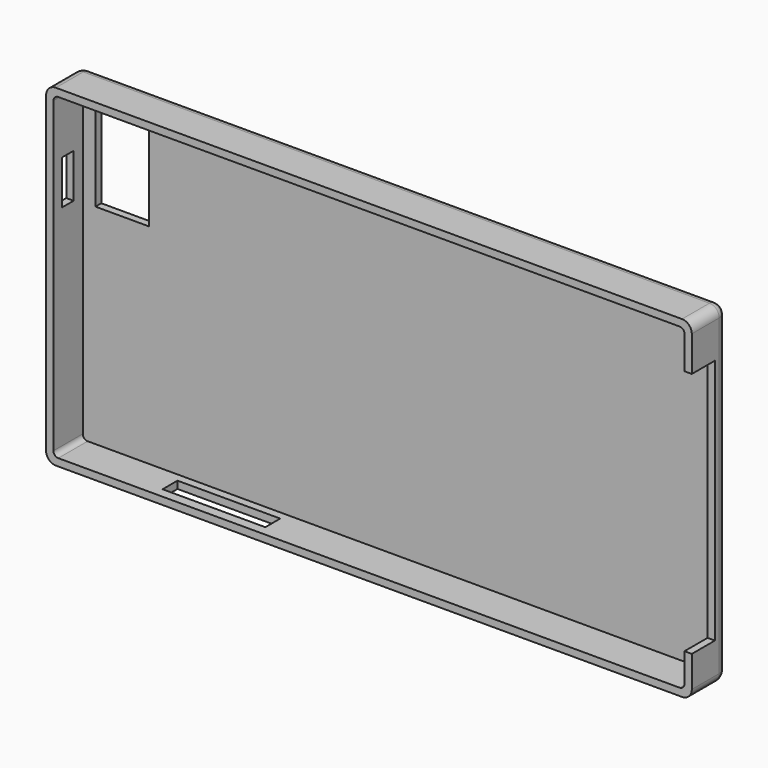
from build123d import *

# Parameters (mm, degrees)
F0_W      = 132
F0_H      = 68
F1_DEPTH  = 9
F2_T      = -1.5
F3_R      = 2
F4_W      = 3
F4_H      = 9
F5_DEPTH  = 25
F6_W      = 21
F6_H      = 3.811
F7_DEPTH  = 25
F8_W      = 11
F8_H      = 18
F9_DEPTH  = 25
F10_W     = 4.2909509502
F10_H     = 50.3760259598
F11_DEPTH = 25
F10_W_2   = 1.6166590303
F12_DEPTH = 5
F13_R     = 1


with BuildPart() as f1:
    # F0 (on Front) → F1 (new body)
    with BuildSketch(Plane.XZ):
        Rectangle(F0_W, F0_H)
    extrude(amount=F1_DEPTH)

    # F2
    f2_openings = [f1.faces().sort_by_distance(p)[0] for p in [
        (0, -9, 0),
    ]]
    offset(amount=F2_T, openings=f2_openings)

    # F3
    f3_edges = [f1.edges().sort_by_distance(p)[0] for p in [
        (-66, -4.5, -34),
        (0, 0, -34),
        (-66, 0, 0),
        (-66, -4.5, 34),
        (0, 0, 34),
        (66, 0, 0),
        (66, -4.5, -34),
        (66, -4.5, 34),
    ]]
    fillet(f3_edges, radius=F3_R)

    # F4 (on face) → F5 (cut)
    with BuildSketch(Plane(origin=(-66, 0, 0), x_dir=(0, -1, 0), z_dir=(-1, 0, 0))):
        with Locations((5.3369137328, 15.8999992609)):
            Rectangle(F4_W, F4_H)
    extrude(amount=-F5_DEPTH, mode=Mode.SUBTRACT)

    # F6 (on face) → F7 (cut)
    with BuildSketch(Plane(origin=(0, 0, -34), x_dir=(1, 0, 0), z_dir=(0, 0, -1))):
        with Locations((-33.2909998, 5.0821127795)):
            Rectangle(F6_W, F6_H)
    extrude(amount=-F7_DEPTH, mode=Mode.SUBTRACT)

    # F8 (on face) → F9 (cut)
    with BuildSketch(Plane.XZ):
        with Locations((-56.4135685265, 19.2365734056)):
            Rectangle(F8_W, F8_H)
    extrude(amount=F9_DEPTH, mode=Mode.SUBTRACT)

    # F10 (on face) → F11 (cut)
    with BuildSketch(Plane.YZ.offset(66)):
        with Locations((-5.2378654946, -0.4230095074)):
            Rectangle(F10_W, F10_H)
    extrude(amount=-F11_DEPTH, mode=Mode.SUBTRACT)

    # F10 (on face) → F12 (cut)
    with BuildSketch(Plane.YZ.offset(66)):
        with Locations((-8.1916704848, -0.4230095074)):
            Rectangle(F10_W_2, F10_H)
    extrude(amount=-F12_DEPTH, mode=Mode.SUBTRACT)

    # F13
    f13_edges = [f1.edges().sort_by_distance(p)[0] for p in [
        (-64.5, -5.25, 32.5),
        (-64.5, -5.25, -32.5),
        (64.5, -5.25, 32.5),
        (64.5, -5.25, -32.5),
    ]]
    fillet(f13_edges, radius=F13_R)


solid = f1.part
